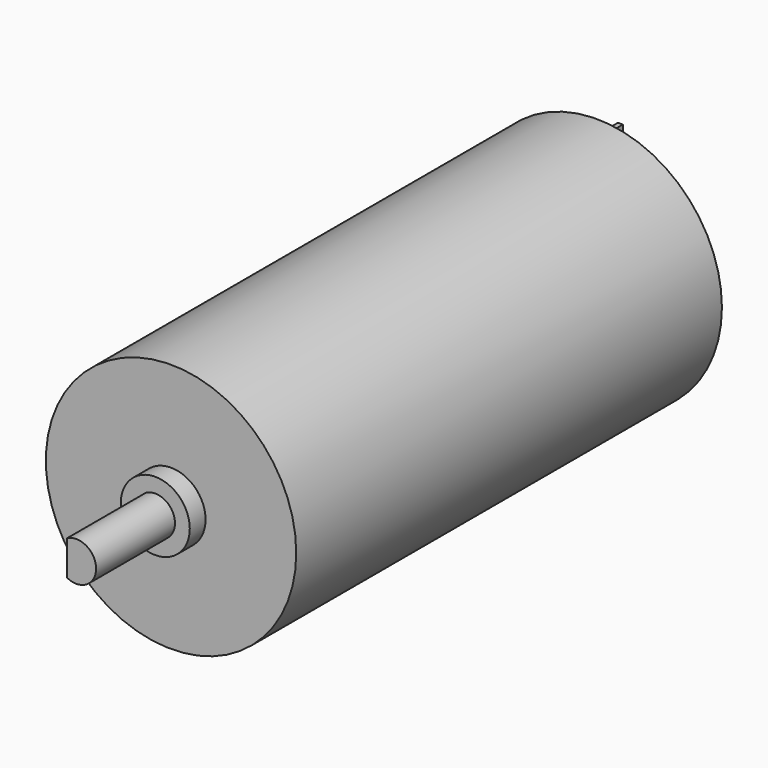
from build123d import *

# Parameters (mm, degrees)
F0_R     = 12.7
F1_DEPTH = 53.975
F2_R     = 3.5
F3_DEPTH = 2
F5_DEPTH = 10
F6_W     = 0.5
F6_H     = 2
F7_DEPTH = 3
F8_R     = 0.5
F9_DEPTH = 25.4


with BuildPart() as f1:
    # F0 (on Front) → F1 (new body)
    with BuildSketch(Plane.XZ):
        Circle(F0_R)
    extrude(amount=F1_DEPTH)

    # F2 (on face) → F3 (join)
    with BuildSketch(Plane.XZ.offset(53.975)):
        Circle(F2_R)
    extrude(amount=F3_DEPTH)

    # F4 (on face) → F5 (join)
    with BuildSketch(Plane.XZ.offset(55.975)):
        with BuildLine():
            Line((-0.962927, 1.752932), (-0.962927, -1.752932))
            ThreePointArc((-0.962927, -1.752932), (2, 0), (-0.962927, 1.752932))
        make_face()
    extrude(amount=F5_DEPTH)

    # F6 (on face) → F7 (join)
    with BuildSketch(Plane(origin=(0, 0, 0), x_dir=(-1, 0, 0), z_dir=(0, 1, 0))):
        with Locations((0.004237, 10.055495)):
            Rectangle(F6_W, F6_H)
        with Locations((0.004237, -10.055495)):
            Rectangle(F6_W, F6_H)
    extrude(amount=F7_DEPTH)

    # F8 (on face) → F9 (cut)
    with BuildSketch(Plane(origin=(-0.254237, 0, 0), x_dir=(0, -1, 0), z_dir=(-1, 0, 0))):
        with Locations((-1.627872, 10.00566)):
            Circle(F8_R)
        with Locations((-1.892378, -10.130965)):
            Circle(F8_R)
    extrude(amount=-F9_DEPTH, mode=Mode.SUBTRACT)


solid = f1.part
